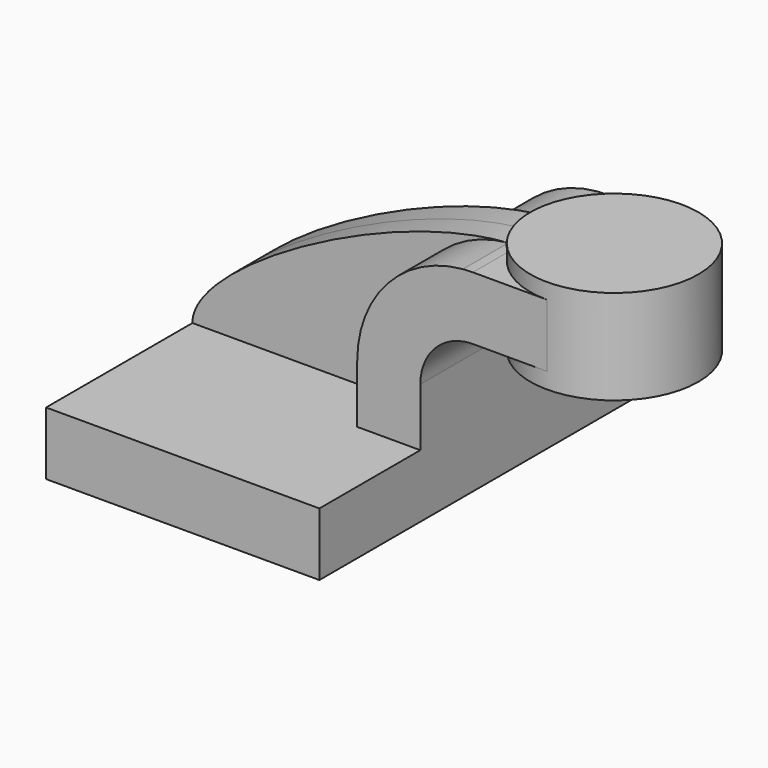
from build123d import *

# Parameters (mm, degrees)
F1_DEPTH = 63.5
F2_DEPTH = 25.4
F3_DEPTH = 8.255


with BuildPart() as f1:
    # F0 (on Front) → F1 (new body, symmetric)
    with BuildSketch(Plane.XZ):
        Polygon((-41.275, -9.525), (41.275, -9.525), (41.275, 9.525), (22.225, 9.525), (-41.275, 9.525), align=None)
    extrude(amount=F1_DEPTH, both=True)

    # F0 (on Front) → F2 (join, symmetric)
    with BuildSketch(Plane.XZ):
        with BuildLine():
            Line((22.225, 9.525), (41.275, 9.525))
            Line((41.275, 9.525), (41.275, 27.051))
            ThreePointArc((41.275, 27.051), (44.920476, 37.172974), (54.182636, 42.646204))
            Line((54.182636, 42.646204), (54.182636, 61.84799))
            add(Edge.make_bspline(
                [(54.096802, 61.842286), (54.125427, 61.844206), (54.154038, 61.846108), (54.182636, 61.84799)],
                knots=[108.458628, 108.458628, 108.458628, 108.458628, 108.543428, 108.543428, 108.543428, 108.543428], degree=3))
            ThreePointArc((54.096802, 61.842286), (31.397441, 50.642552), (22.225, 27.051))
            Line((22.225, 27.051), (22.225, 9.525))
        make_face()
        with BuildLine():
            Line((54.182636, 61.84799), (54.182636, 42.646204))
            ThreePointArc((54.182636, 42.646204), (55.659737, 42.855896), (57.15, 42.926))
            Line((57.15, 42.926), (73.837688, 42.926))
            Line((73.837688, 42.926), (79.582636, 42.926))
            Line((79.582636, 42.926), (79.582636, 61.976))
            Line((79.582636, 61.976), (73.837688, 61.976))
            Line((73.837688, 61.976), (57.15, 61.976))
            add(Edge.make_bspline(
                [(54.182636, 61.84799), (55.189281, 61.914258), (56.178968, 61.957255), (57.15, 61.976)],
                knots=[108.543428, 108.543428, 108.543428, 108.543428, 111.528418, 111.528418, 111.528418, 111.528418], degree=3))
        make_face()
    extrude(amount=F2_DEPTH, both=True)

    # F0 (on Front) → F3 (join, symmetric)
    with BuildSketch(Plane.XZ):
        with BuildLine():
            add(Edge.make_bspline(
                [(-41.275, 9.525), (-41.449575, 26.246032), (17.485724, 59.386473), (54.096802, 61.842286)],
                knots=[0, 0, 0, 0, 108.458628, 108.458628, 108.458628, 108.458628], degree=3))
            Line((-41.275, 9.525), (22.225, 9.525))
            Line((22.225, 9.525), (22.225, 27.051))
            ThreePointArc((22.225, 27.051), (31.397441, 50.642552), (54.096802, 61.842286))
        make_face()
    extrude(amount=F3_DEPTH, both=True)

    # F0 (on Front) → F4 (revolve)
    with BuildSketch(Plane.XZ):
        Polygon((79.582636, 42.926), (79.582636, 38.1), (104.982636, 38.1), (104.982636, 66.675), (79.582636, 66.675), (79.582636, 61.976), align=None)
    revolve(axis=Axis((79.582636, 0, 50.038), (0, 0, -1)))


solid = f1.part
